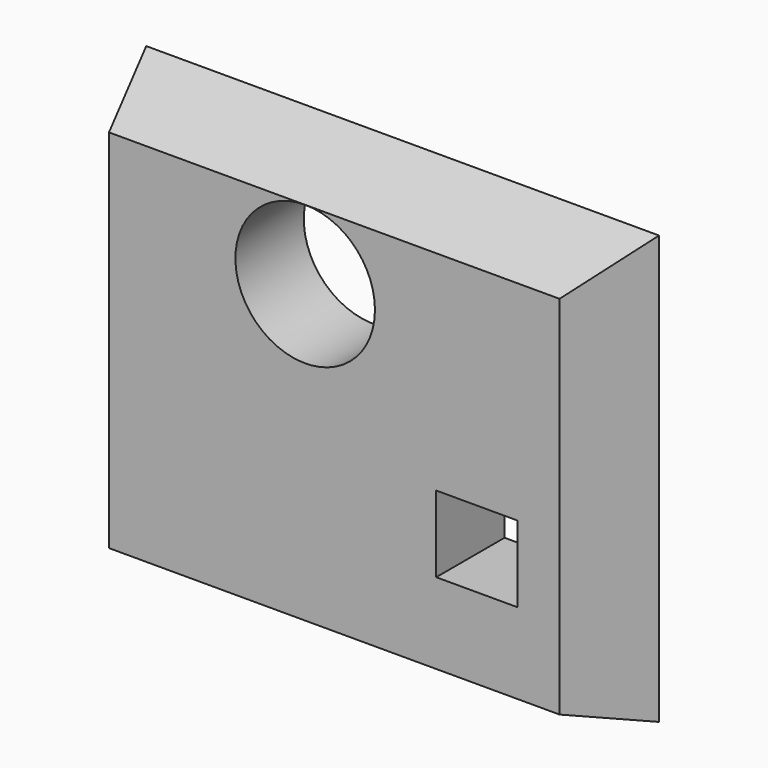
from build123d import *

# Parameters (mm, degrees)
F0_W     = 152.4
F0_H     = 127.2674917114
F1_DEPTH = 25.4
F1_TAPER = 20
F2_W     = 24.2093652487
F2_H     = 22.6856842637
F3_DEPTH = 25.4
F4_R     = 20.7379881478
F5_DEPTH = 25.4010001


with BuildPart() as f1:
    # F0 (on Front) → F1 (new body)
    with BuildSketch(Plane.XZ):
        with Locations((76.2, 63.6337458557)):
            Rectangle(F0_W, F0_H)
    extrude(amount=F1_DEPTH, taper=F1_TAPER)

    # F2 (on face) → F3 (cut)
    with BuildSketch(Plane.XZ.offset(25.4)):
        with Locations((118.6031028628, 44.6040146053)):
            Rectangle(F2_W, F2_H)
    extrude(amount=-F3_DEPTH, mode=Mode.SUBTRACT)

    # F4 (on face) → F5 (cut, through all)
    with BuildSketch(Plane.XZ.offset(25.4)):
        with Locations((67.5532594323, 97.2846596132)):
            Circle(F4_R)
    extrude(amount=-F5_DEPTH, mode=Mode.SUBTRACT)


solid = f1.part
